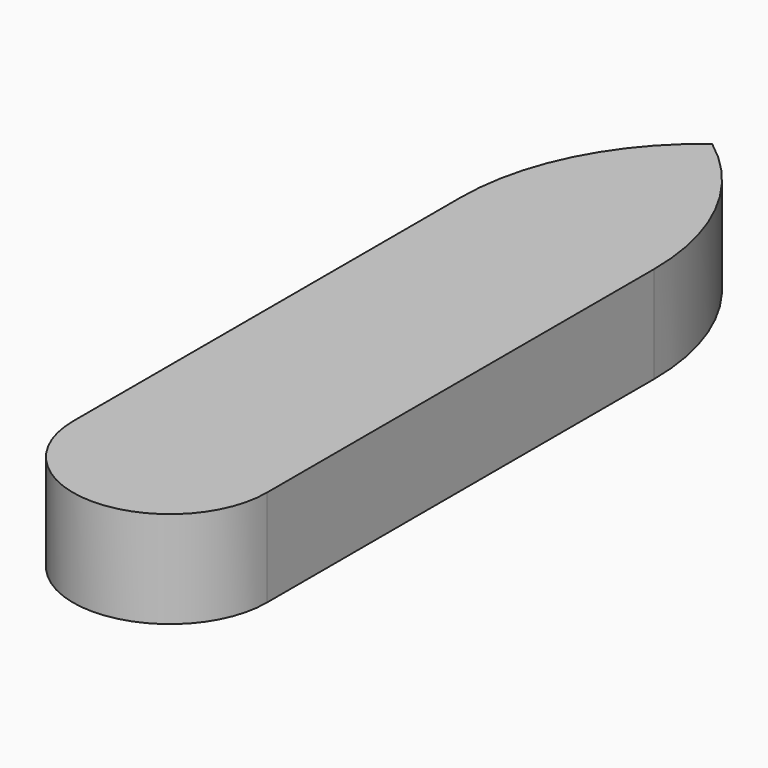
from build123d import *

# Parameters (mm, degrees)
F1_DEPTH = 1219.2


with BuildPart() as f1:
    # F0 (on Top) → F1 (new body)
    with BuildSketch(Plane.XY):
        with BuildLine():
            ThreePointArc((-1219.2, -8534.4), (0, -9753.6), (1219.2, -8534.4))
            Line((1219.2, -8534.4), (1219.2, -2438.4))
            ThreePointArc((1219.2, -2438.4), (897.414078, -1075.292961), (0, 0))
            ThreePointArc((0, 0), (-897.414078, -1075.292961), (-1219.2, -2438.4))
            Line((-1219.2, -2438.4), (-1219.2, -8534.4))
        make_face()
    extrude(amount=F1_DEPTH)


solid = f1.part
